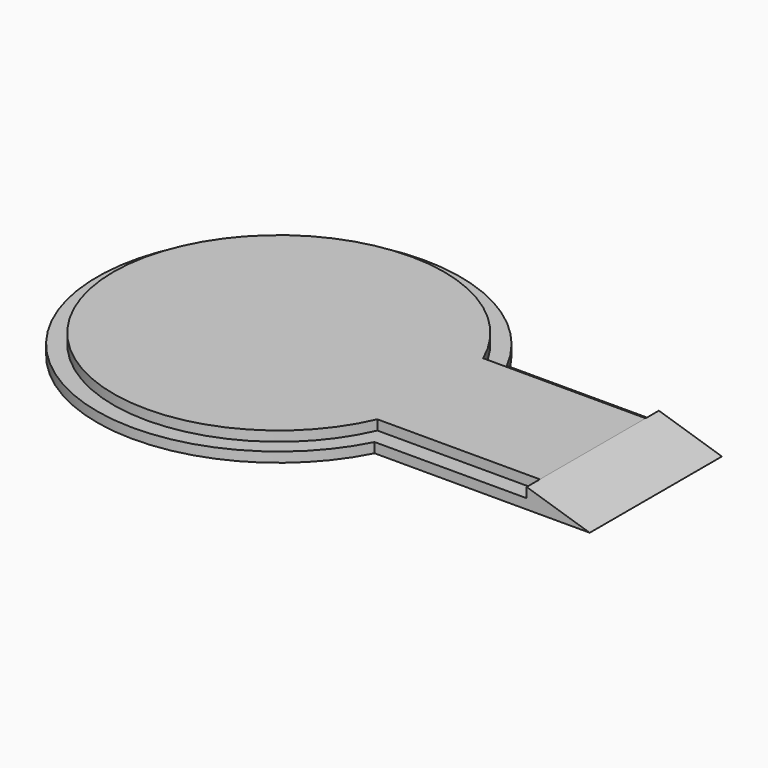
from build123d import *

# Parameters (mm, degrees)
F1_DEPTH = 1.5
F0_W     = 20
F0_H     = 20
F2_DEPTH = 3
F4_DEPTH = 12.5


with BuildPart() as f1:
    # F0 (on Top) → F1 (new body)
    with BuildSketch(Plane.XY):
        with BuildLine():
            Line((22.912878, 10), (27.5, 10))
            Line((27.5, 10), (47.5, 10))
            Line((47.5, 10), (47.5, 12.5))
            Line((47.5, 12.5), (27.5, 12.5))
            Line((27.5, 12.5), (24.494897, 12.5))
            ThreePointArc((24.494897, 12.5), (-27.5, 0), (24.494897, -12.5))
            Line((24.494897, -12.5), (27.5, -12.5))
            Line((27.5, -12.5), (47.5, -12.5))
            Line((47.5, -12.5), (47.5, -10))
            Line((47.5, -10), (27.5, -10))
            Line((27.5, -10), (22.912878, -10))
            ThreePointArc((22.912878, -10), (-25, 0), (22.912878, 10))
        make_face()
    extrude(amount=F1_DEPTH)

    # F0 (on Top) → F2 (join)
    with BuildSketch(Plane.XY):
        with BuildLine():
            Line((27.5, -10), (27.5, 10))
            Line((27.5, 10), (22.912878, 10))
            ThreePointArc((22.912878, 10), (-25, 0), (22.912878, -10))
            Line((22.912878, -10), (27.5, -10))
        make_face()
        with Locations((37.5, 0)):
            Rectangle(F0_W, F0_H)
    extrude(amount=F2_DEPTH)

    # F3 (on Front) → F4 (join, symmetric)
    with BuildSketch(Plane.XZ):
        Polygon((47.5, 3), (47.5, 0), (57.039392, 0), align=None)
    extrude(amount=F4_DEPTH, both=True)


solid = f1.part
